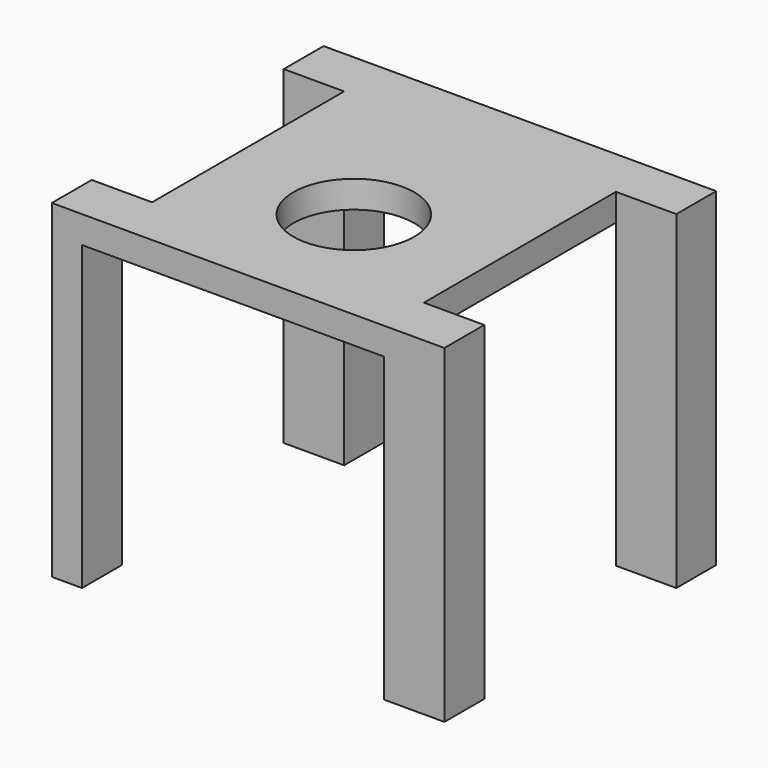
from build123d import *

# Parameters (mm, degrees)
PAD009_DEPTH    = 1.8
SKETCH033_R     = 4
POCKET021_DEPTH = 5
SKETCH_W        = 2
SKETCH_H        = 3.3
SKETCH_W_2      = 4
PAD_DEPTH       = 20


with BuildPart() as part:
    # Sketch031 → Pad009 (new body)
    with BuildSketch(Plane.XY):
        Polygon((-13, 13.75), (13, 13.75), (13, 10.45), (9, 10.45), (9, -5.45), (13, -5.45), (13, -8.75), (-13, -8.75), (-13, -5.45), (-9, -5.45), (-9, 10.45), (-13, 10.45), align=None)
    extrude(amount=PAD009_DEPTH)

    # Sketch033 → Pocket021 (cut)
    with BuildSketch(Plane.XY.offset(2)):
        Circle(SKETCH033_R)
    extrude(amount=-POCKET021_DEPTH, mode=Mode.SUBTRACT)

    # Sketch (on Face13 of Pad009) → Pad (join)
    with BuildSketch(Plane(origin=(0, 0, 0), x_dir=(1, 0, 0), z_dir=(0, 0, -1))):
        with Locations((-12, 7.1)):
            Rectangle(SKETCH_W, SKETCH_H)
        with Locations((11, 7.1)):
            Rectangle(SKETCH_W_2, SKETCH_H)
        with Locations((11, -12.1)):
            Rectangle(SKETCH_W_2, SKETCH_H)
        with Locations((-11, -12.1)):
            Rectangle(SKETCH_W_2, SKETCH_H)
    extrude(amount=PAD_DEPTH)


with BuildPart() as part_1:
    # Body005 placement: moved
    add(part.part.moved(Location((0, 0, 28))))


solid = part_1.part
